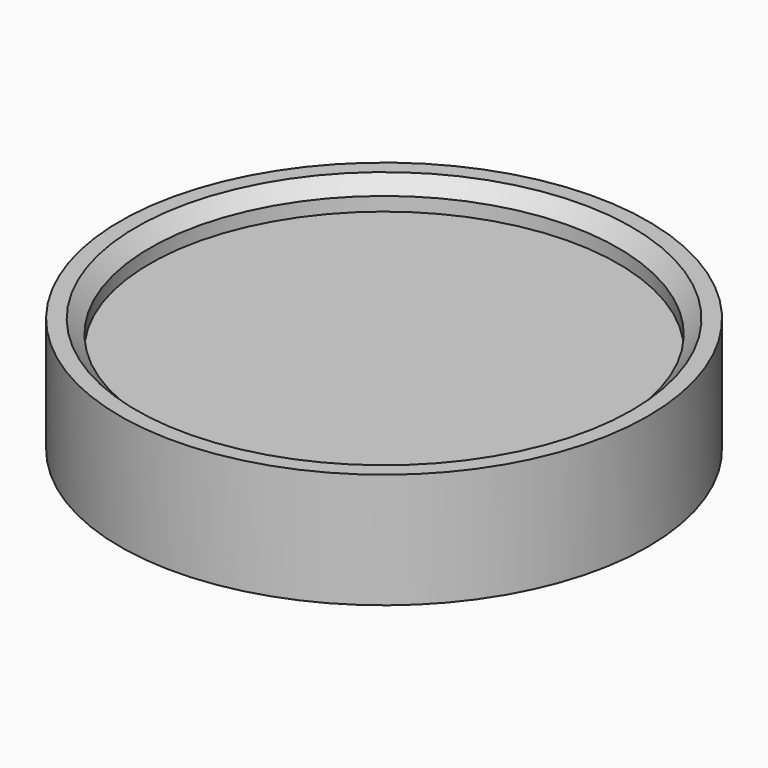
from build123d import *

# Parameters (mm, degrees)
F0_R     = 14.5796
F1_DEPTH = 4.826
F2_R     = 14.5796
F2_R_2   = 12.9286
F3_DEPTH = 1.524
F4_SIZE  = 0.762


with BuildPart() as f1:
    # F0 (on Top) → F1 (new body)
    with BuildSketch(Plane.XY):
        Circle(F0_R)
    extrude(amount=F1_DEPTH)

    # F2 (on face) → F3 (join)
    with BuildSketch(Plane.XY.offset(4.826)):
        Circle(F2_R)
        Circle(F2_R_2, mode=Mode.SUBTRACT)
    extrude(amount=F3_DEPTH)

    # F4
    f4_edges = [f1.edges().sort_by_distance(p)[0] for p in [
        (-12.9286, 0, 6.35),
    ]]
    chamfer(f4_edges, length=F4_SIZE)


solid = f1.part
